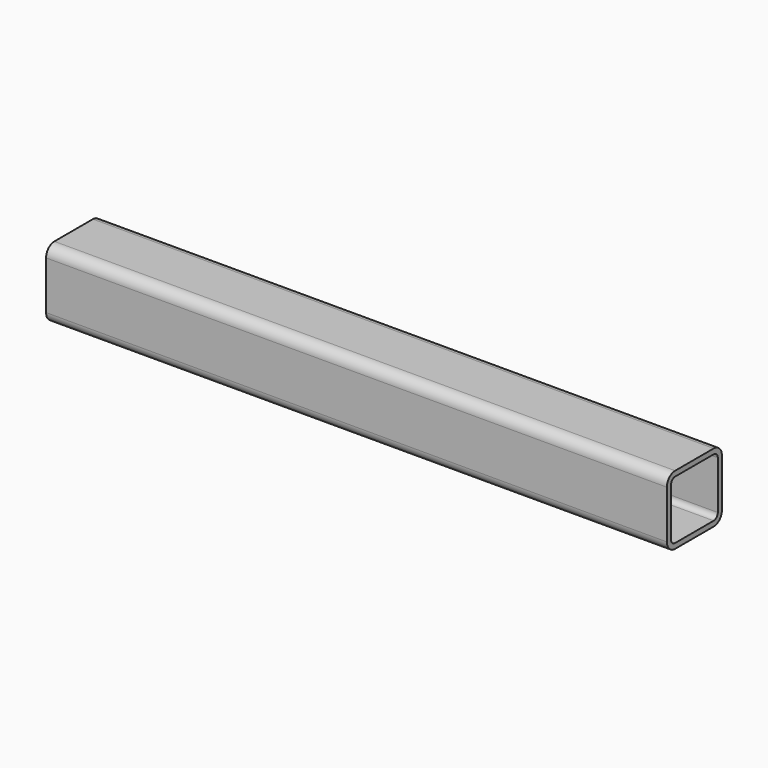
from build123d import *

# Parameters (mm, degrees)
F1_DEPTH = 573.0875


with BuildPart() as f1:
    # F0 (on Right) → F1 (new body)
    with BuildSketch(Plane.YZ):
        with BuildLine():
            ThreePointArc((38.682325, -11.486343), (45.417517, -8.696535), (48.207325, -1.961343))
            Line((48.207325, -1.961343), (48.207325, 42.488657))
            ThreePointArc((48.207325, 42.488657), (45.417517, 49.223849), (38.682325, 52.013657))
            Line((38.682325, 52.013657), (-5.767675, 52.013657))
            ThreePointArc((-5.767675, 52.013657), (-12.502867, 49.223849), (-15.292675, 42.488657))
            Line((-15.292675, 42.488657), (-15.292675, -1.961343))
            ThreePointArc((-15.292675, -1.961343), (-12.502867, -8.696535), (-5.767675, -11.486343))
            Line((-5.767675, -11.486343), (38.682325, -11.486343))
        make_face()
        with BuildLine():
            ThreePointArc((-10.530175, 42.488657), (-9.135271, 45.856253), (-5.767675, 47.251157))
            Line((-5.767675, 47.251157), (38.682325, 47.251157))
            ThreePointArc((38.682325, 47.251157), (42.049921, 45.856253), (43.444825, 42.488657))
            Line((43.444825, 42.488657), (43.444825, -1.961343))
            ThreePointArc((43.444825, -1.961343), (42.049921, -5.328939), (38.682325, -6.723843))
            Line((38.682325, -6.723843), (-5.767675, -6.723843))
            ThreePointArc((-5.767675, -6.723843), (-9.135271, -5.328939), (-10.530175, -1.961343))
            Line((-10.530175, -1.961343), (-10.530175, 42.488657))
        make_face(mode=Mode.SUBTRACT)
    extrude(amount=F1_DEPTH)


solid = f1.part
